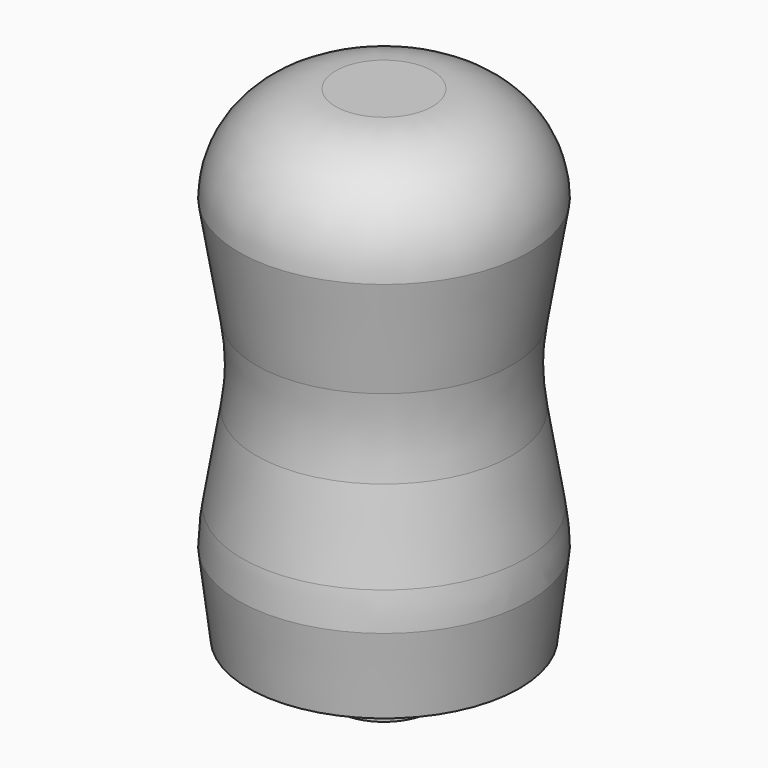
from build123d import *


with BuildPart() as f1:
    # F0 (on Front) → F1 (revolve)
    with BuildSketch(Plane.XZ):
        with BuildLine():
            ThreePointArc((3, 1.65093), (2.980523, 2.029472), (2.932425, 2.405451))
            Line((2.932425, 2.405451), (2.636999, 4.178005))
            ThreePointArc((2.636999, 4.178005), (2.568969, 5), (2.636999, 5.821995))
            Line((2.636999, 5.821995), (3, 8))
            ThreePointArc((3, 8), (2.414214, 9.414214), (1, 10))
            Line((1, 10), (0, 10))
            Line((0, 10), (0, 0))
            Line((0, 0), (0, -1))
            Line((0, -1), (1, -1))
            Line((1, -1), (1, 0))
            Line((1, 0), (2.8, 0))
            Line((2.8, 0), (3, 1.65093))
        make_face()
    revolve(axis=Axis((0, 0, 4.5), (0, 0, 1)))


solid = f1.part
